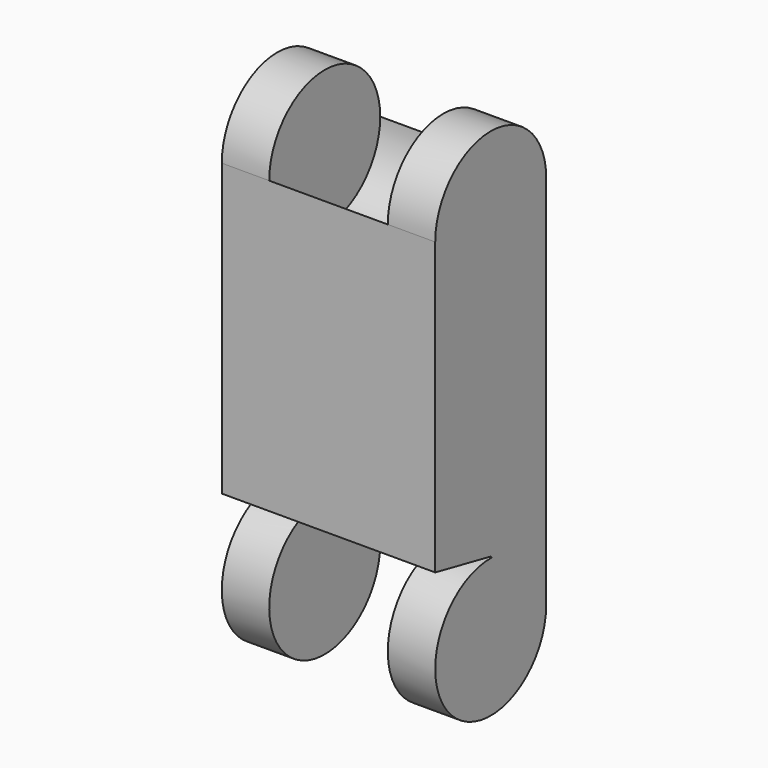
from build123d import *

# Parameters (mm, degrees)
F1_DEPTH = 57.15
F2_START = 31.75
F2_DEPTH = 25.4
F3_START = -31.75
F3_DEPTH = 25.4
F4_START = 31.75
F4_DEPTH = 25.4
F5_START = -31.75
F5_DEPTH = 25.4


with BuildPart() as f1:
    # F0 (on Right) → F1 (new body, symmetric)
    with BuildSketch(Plane.YZ):
        with BuildLine():
            Line((37.1475, -74.295), (37.1475, 0))
            ThreePointArc((37.1475, 0), (0, -37.1475), (-37.1475, 0))
            Line((-37.1475, 0), (-37.1475, -74.295))
            Line((-37.1475, -74.295), (37.1475, -74.295))
        make_face()
        with BuildLine():
            Line((37.1475, -201.295), (37.1475, -74.295))
            Line((37.1475, -74.295), (-37.1475, -74.295))
            Line((-37.1475, -74.295), (-37.1475, -155.7949632406))
            Line((-37.1475, -155.7949632406), (0, -163.3808536928))
            Line((0, -163.3808536928), (0.7587369735, -164.1552494024))
            ThreePointArc((0.7587369735, -164.1552494024), (26.5341472255, -175.2973888162), (37.1475, -201.295))
        make_face()
    extrude(amount=F1_DEPTH, both=True)

    # F0 (on Right) → F2 (join)
    with BuildSketch(Plane.YZ.offset(F2_START)):
        with BuildLine():
            Line((-37.1475, 0), (37.1475, 0))
            ThreePointArc((37.1475, 0), (0, 37.1475), (-37.1475, 0))
        make_face()
        with BuildLine():
            ThreePointArc((-37.1475, 0), (0, -37.1475), (37.1475, 0))
            Line((37.1475, 0), (-37.1475, 0))
        make_face()
    extrude(amount=F2_DEPTH)

    # F0 (on Right) → F3 (join)
    with BuildSketch(Plane.YZ.offset(F3_START)):
        with BuildLine():
            Line((-37.1475, 0), (37.1475, 0))
            ThreePointArc((37.1475, 0), (0, 37.1475), (-37.1475, 0))
        make_face()
        with BuildLine():
            ThreePointArc((-37.1475, 0), (0, -37.1475), (37.1475, 0))
            Line((37.1475, 0), (-37.1475, 0))
        make_face()
    extrude(amount=-F3_DEPTH)

    # F0 (on Right) → F4 (join)
    with BuildSketch(Plane.YZ.offset(F4_START)):
        with BuildLine():
            Line((-37.1475, -201.295), (37.1475, -201.295))
            Line((37.1475, -201.295), (0.7587369735, -164.1552494024))
            ThreePointArc((0.7587369735, -164.1552494024), (-25.9976111838, -174.7608527745), (-37.1475, -201.295))
        make_face()
        with BuildLine():
            ThreePointArc((-37.1475, -201.295), (0, -238.4425), (37.1475, -201.295))
            Line((37.1475, -201.295), (-37.1475, -201.295))
        make_face()
        with BuildLine():
            Line((0.7587369735, -164.1552494024), (37.1475, -201.295))
            ThreePointArc((37.1475, -201.295), (26.5341472255, -175.2973888162), (0.7587369735, -164.1552494024))
        make_face()
    extrude(amount=F4_DEPTH)

    # F0 (on Right) → F5 (join)
    with BuildSketch(Plane.YZ.offset(F5_START)):
        with BuildLine():
            Line((-37.1475, -201.295), (37.1475, -201.295))
            Line((37.1475, -201.295), (0.7587369735, -164.1552494024))
            ThreePointArc((0.7587369735, -164.1552494024), (-25.9976111838, -174.7608527745), (-37.1475, -201.295))
        make_face()
        with BuildLine():
            ThreePointArc((-37.1475, -201.295), (0, -238.4425), (37.1475, -201.295))
            Line((37.1475, -201.295), (-37.1475, -201.295))
        make_face()
        with BuildLine():
            Line((0.7587369735, -164.1552494024), (37.1475, -201.295))
            ThreePointArc((37.1475, -201.295), (26.5341472255, -175.2973888162), (0.7587369735, -164.1552494024))
        make_face()
    extrude(amount=-F5_DEPTH)


solid = f1.part
